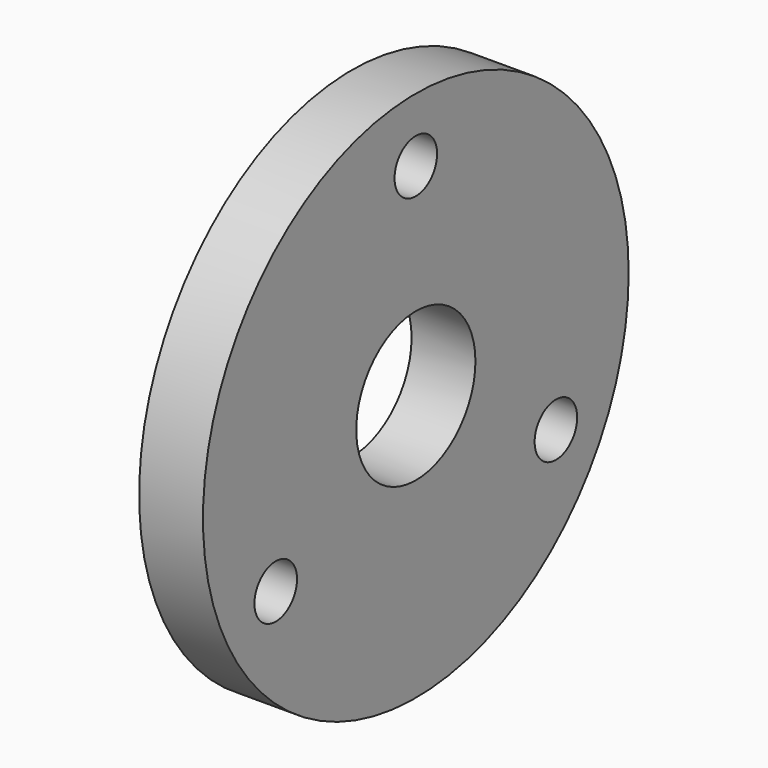
from build123d import *

# Parameters (mm, degrees)
F0_R     = 25
F0_R_2   = 2.5
F0_R_3   = 7
F1_DEPTH = 6


with BuildPart() as f1:
    # F0 (on Right) → F1 (new body)
    with BuildSketch(Plane.YZ):
        Circle(F0_R)
        with Locations((-16.454483, -9.5)):
            Circle(F0_R_2, mode=Mode.SUBTRACT)
        with Locations((16.454483, -9.5)):
            Circle(F0_R_2, mode=Mode.SUBTRACT)
        Circle(F0_R_3, mode=Mode.SUBTRACT)
        with Locations((0, 19)):
            Circle(F0_R_2, mode=Mode.SUBTRACT)
    extrude(amount=F1_DEPTH)


solid = f1.part
